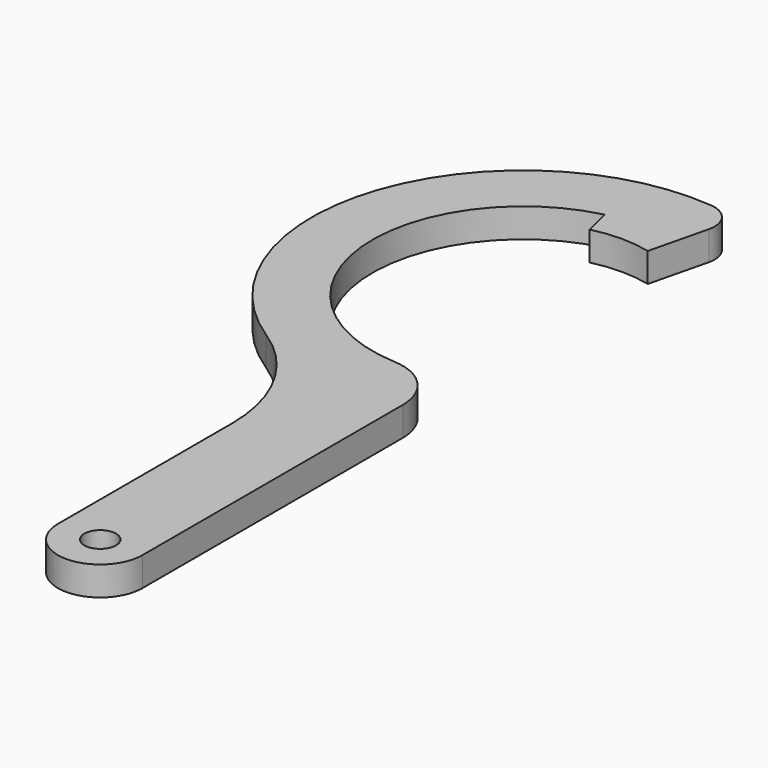
from build123d import *

# Parameters (mm, degrees)
F0_R     = 3
F1_DEPTH = 5.5


with BuildPart() as f1:
    # F0 (on Top) → F1 (new body)
    with BuildSketch(Plane.XY):
        with BuildLine():
            Line((-8, -58.787754), (-8, -100))
            ThreePointArc((-8, -100), (0, -108), (8, -100))
            Line((8, -100), (8, -38.448017))
            ThreePointArc((8, -38.448017), (5.252407, -31.563062), (-1.480519, -28.461519))
            ThreePointArc((-1.480519, -28.461519), (-28.375711, -2.658762), (-6.741935, 27.691087))
            Line((-6.741935, 27.691087), (-5.5, 22.590097))
            ThreePointArc((-5.5, 22.590097), (0, 23.25), (5.5, 22.590097))
            Line((5.5, 22.590097), (8.194649, 33.657803))
            ThreePointArc((8.194649, 33.657803), (7.411037, 37.738645), (3.813215, 39.817828))
            ThreePointArc((3.813215, 39.817828), (-37.780942, 13.137749), (-21.714286, -33.593002))
            ThreePointArc((-21.714286, -33.593002), (-11.650698, -44.445011), (-8, -58.787754))
        make_face()
        with Locations((0, -100)):
            Circle(F0_R, mode=Mode.SUBTRACT)
    extrude(amount=F1_DEPTH)


solid = f1.part
